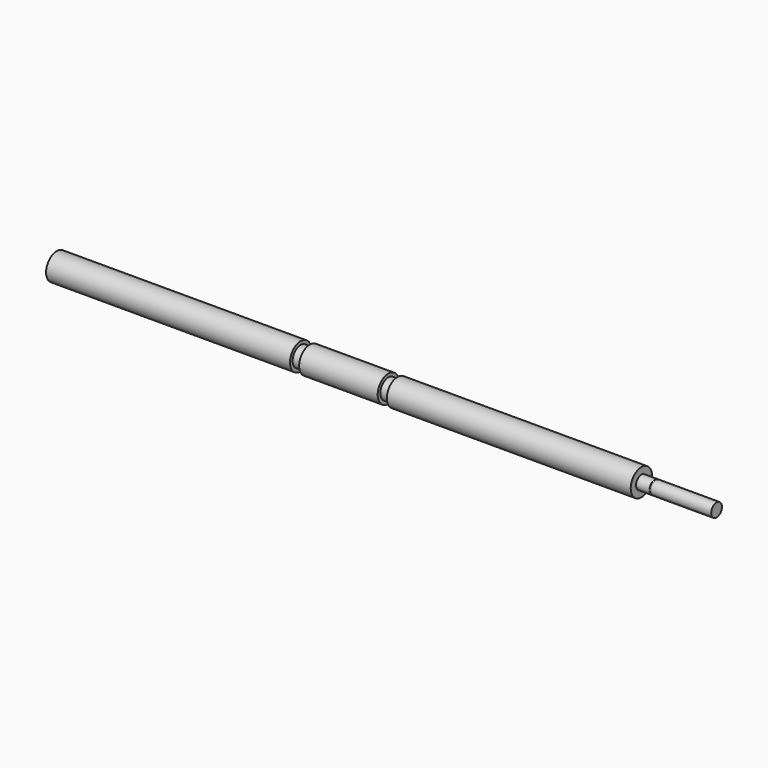
from build123d import *


with BuildPart() as f1:
    # F0 (on Front) → F1 (revolve)
    with BuildSketch(Plane.XZ):
        Polygon((146, 16), (0, 16), (0, 8), (358, 8), (358.9, 8), (395, 8), (395, 12), (358.9, 12), (358.9, 11.8), (358, 11.8), (358, 12), (350, 12), (350, 16), (204, 16), (204, 14), (198.5, 14), (198.5, 16), (151.5, 16), (151.5, 14), (146, 14), align=None)
    revolve(axis=Axis((197.5, 0, 8), (1, 0, 0)))


solid = f1.part
